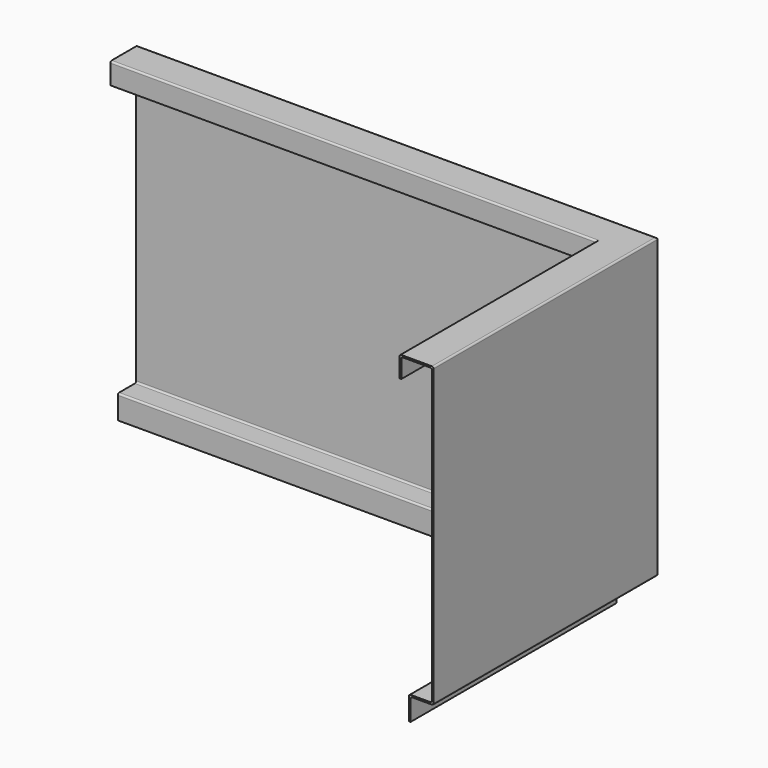
from build123d import *

# Parameters (mm, degrees)
F3_R = 2


with BuildPart() as f2:
    # F2: sweep along a path in F1
    with BuildLine(Plane.XY) as f2_path:
        Line((0, 0), (0, 329))
        Line((0, 329), (-611, 329))
    # F0 (on Front) → F2 (sweep)
    with BuildSketch(Plane.XZ):
        Polygon((0, -350), (0, 0), (-40, 0), (-40, -25), (-38, -25), (-38, -2), (-2, -2), (-2, -348), (-29, -348), (-29, -376), (-27, -376), (-27, -350), align=None)
    sweep(path=f2_path.line, transition=Transition.RIGHT)

    # F3
    f3_edges = [f2.edges().sort_by_distance(p)[0] for p in [
        (-325.5, 289, 0),
        (-305.5, 329, 0),
        (-40, 144.5, 0),
        (0, 164.5, 0),
        (-306.5, 327, -348),
        (-320, 300, -348),
        (-29, 150, -348),
        (-2, 163.5, -348),
        (0, 164.5, -350),
        (-27, 151, -350),
        (-319, 302, -350),
        (-305.5, 329, -350),
        (-306.5, 327, -2),
        (-2, 163.5, -2),
        (-38, 145.5, -2),
        (-324.5, 291, -2),
    ]]
    fillet(f3_edges, radius=F3_R)


solid = f2.part
